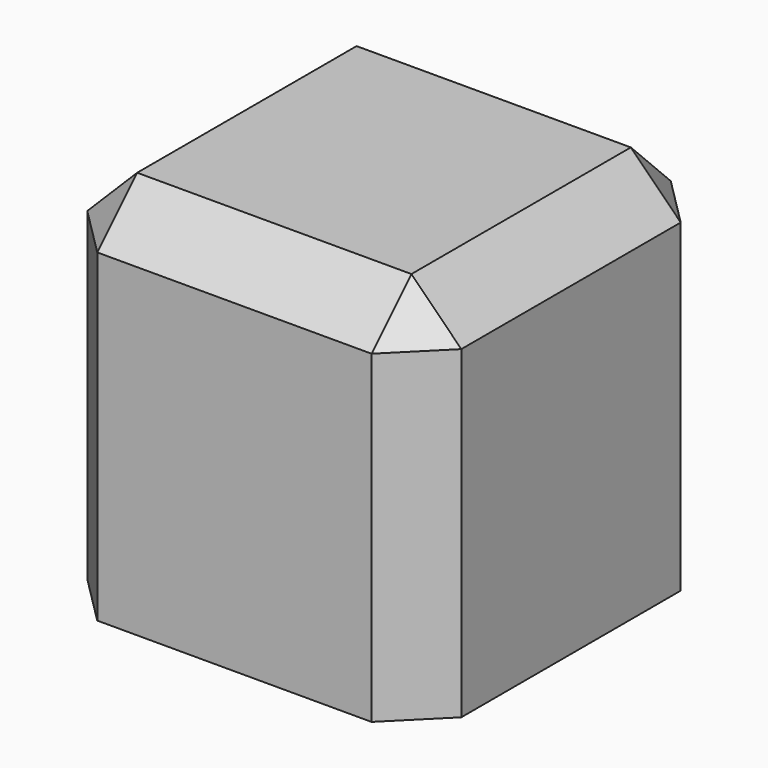
from build123d import *

# Parameters (mm, degrees)
F0_W     = 38.1
F0_H     = 38.1
F1_DEPTH = 38.1
F2_SIZE  = 5.08


with BuildPart() as f1:
    # F0 (on Front) → F1 (new body)
    with BuildSketch(Plane.XZ):
        Rectangle(F0_W, F0_H)
    extrude(amount=F1_DEPTH)

    # F2
    f2_edges = [f1.edges().sort_by_distance(p)[0] for p in [
        (0, -38.1, 19.05),
        (-19.05, -19.05, 19.05),
        (0, 0, 19.05),
        (19.05, -19.05, 19.05),
        (19.05, -38.1, 0),
        (19.05, 0, 0),
        (-19.05, -38.1, 0),
        (-19.05, 0, 0),
    ]]
    chamfer(f2_edges, length=F2_SIZE)


solid = f1.part
